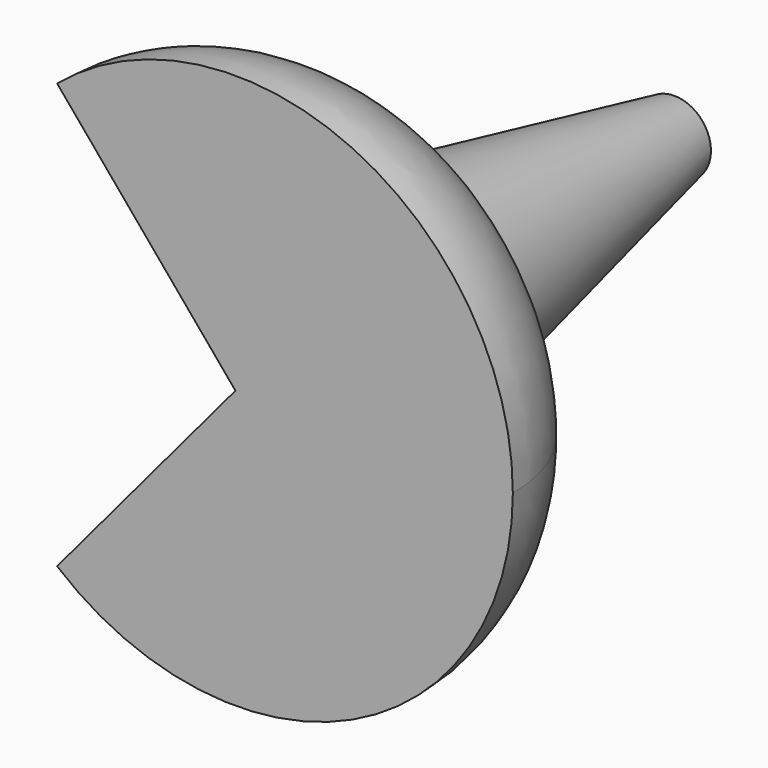
from build123d import *

# Parameters (mm, degrees)
F0_W     = 0.5
F0_H     = 15
F1_ANGLE = -260


with BuildPart() as f1:
    # F0 (on Top) → F1 (revolve, symmetric)
    with BuildSketch(Plane.XY) as f1_sk:
        with Locations((0.25, 7.5)):
            Rectangle(F0_W, F0_H)
        with BuildLine():
            Line((0.5, 15), (0.5, 0))
            Line((0.5, 0), (7.583747, 0))
            ThreePointArc((7.583747, 0), (6.296657, 3.037944), (3.21887, 4.226613))
            Line((3.21887, 4.226613), (3.218532, 4.228254))
            Line((3.218532, 4.228254), (1, 15))
            Line((1, 15), (0.5, 15))
        make_face()
    revolve(axis=Axis((0, 7.5, 0), (0, 1, 0)), revolution_arc=F1_ANGLE / 2)
    revolve(f1_sk.sketch, axis=Axis((0, 7.5, 0), (0, -1, 0)), revolution_arc=F1_ANGLE / 2)


solid = f1.part
